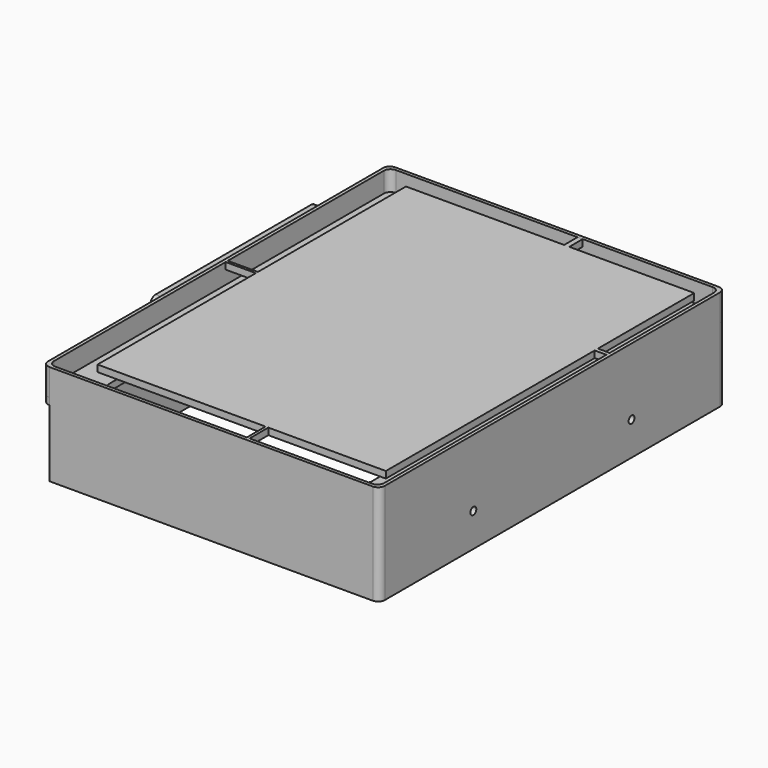
from build123d import *

# Parameters (mm, degrees)
F1_DEPTH  = 6
F3_DEPTH  = 2
F4_DEPTH  = 22
F6_DEPTH  = 22
F7_W      = 1.541879
F7_H      = 5
F7_W_2    = 9
F7_H_2    = 0.79839
F7_W_3    = 3.5
F7_H_3    = 1.202248
F7_W_4    = 0.828379
F7_H_4    = 7
F8_DEPTH  = 2
F10_DEPTH = 13.5
F11_W     = 29.551757
F11_H     = 60.03771
F12_DEPTH = 20
F13_W     = 24.233846
F13_H     = 52
F14_DEPTH = 15
F15_R     = 1.1
F17_DEPTH = 120
F16_R     = 1.1
F18_DEPTH = 25


with BuildPart() as f1:
    # F0 (on Top) → F1 (new body)
    with BuildSketch(Plane.XY):
        with BuildLine():
            Line((47.044474, 65.263562), (-49.455526, 65.263562))
            ThreePointArc((-49.455526, 65.263562), (-50.869739, 64.677775), (-51.455526, 63.263562))
            Line((-51.455526, 63.263562), (-51.455526, -61.736438))
            ThreePointArc((-51.455526, -61.736438), (-50.869739, -63.150652), (-49.455526, -63.736438))
            Line((-49.455526, -63.736438), (47.044474, -63.736438))
            ThreePointArc((47.044474, -63.736438), (48.458688, -63.150652), (49.044474, -61.736438))
            Line((49.044474, -61.736438), (49.044474, 63.263562))
            ThreePointArc((49.044474, 63.263562), (48.458688, 64.677775), (47.044474, 65.263562))
        make_face()
        with BuildLine():
            ThreePointArc((-50.455526, 62.263562), (-49.869739, 63.677775), (-48.455526, 64.263562))
            Line((-48.455526, 64.263562), (46.044474, 64.263562))
            ThreePointArc((46.044474, 64.263562), (47.458688, 63.677775), (48.044474, 62.263562))
            Line((48.044474, 62.263562), (48.044474, -60.736438))
            ThreePointArc((48.044474, -60.736438), (47.458688, -62.150652), (46.044474, -62.736438))
            Line((46.044474, -62.736438), (-48.455526, -62.736438))
            ThreePointArc((-48.455526, -62.736438), (-49.869739, -62.150652), (-50.455526, -60.736438))
            Line((-50.455526, -60.736438), (-50.455526, 62.263562))
        make_face(mode=Mode.SUBTRACT)
    extrude(amount=F1_DEPTH)

    # F2 (on Top) → F3 (join)
    with BuildSketch(Plane.XY):
        with BuildLine():
            Line((47.044474, 65.263562), (-49.455526, 65.263562))
            ThreePointArc((-49.455526, 65.263562), (-50.869739, 64.677775), (-51.455526, 63.263562))
            Line((-51.455526, 63.263562), (-51.455526, -61.736438))
            ThreePointArc((-51.455526, -61.736438), (-50.869739, -63.150652), (-49.455526, -63.736438))
            Line((-49.455526, -63.736438), (47.044474, -63.736438))
            ThreePointArc((47.044474, -63.736438), (48.458688, -63.150652), (49.044474, -61.736438))
            Line((49.044474, -61.736438), (49.044474, 63.263562))
            ThreePointArc((49.044474, 63.263562), (48.458688, 64.677775), (47.044474, 65.263562))
        make_face()
        with BuildLine():
            ThreePointArc((-40.455526, 54.263562), (-39.869739, 55.677775), (-38.455526, 56.263562))
            Line((-38.455526, 56.263562), (36.044474, 56.263562))
            ThreePointArc((36.044474, 56.263562), (37.458688, 55.677775), (38.044474, 54.263562))
            Line((38.044474, 54.263562), (38.044474, -52.736438))
            ThreePointArc((38.044474, -52.736438), (37.458688, -54.150652), (36.044474, -54.736438))
            Line((36.044474, -54.736438), (-38.455526, -54.736438))
            ThreePointArc((-38.455526, -54.736438), (-39.869739, -54.150652), (-40.455526, -52.736438))
            Line((-40.455526, -52.736438), (-40.455526, 54.263562))
        make_face(mode=Mode.SUBTRACT)
    extrude(amount=-F3_DEPTH)

    # F3_face (on face) → F4 (join)
    with BuildSketch(Plane(origin=(-1.205526, 0.763562, -2), x_dir=(1, 0, 0), z_dir=(0, 0, -1))):
        with BuildLine():
            Line((-48.25, -64.5), (48.25, -64.5))
            ThreePointArc((48.25, -64.5), (49.664214, -63.914214), (50.25, -62.5))
            Line((50.25, -62.5), (50.25, 62.5))
            ThreePointArc((50.25, 62.5), (49.664214, 63.914214), (48.25, 64.5))
            Line((48.25, 64.5), (-48.25, 64.5))
            ThreePointArc((-48.25, 64.5), (-49.664214, 63.914214), (-50.25, 62.5))
            Line((-50.25, 62.5), (-50.25, -62.5))
            ThreePointArc((-50.25, -62.5), (-49.664214, -63.914214), (-48.25, -64.5))
        make_face()
        with BuildLine():
            ThreePointArc((-39.25, 53.5), (-38.664214, 54.914214), (-37.25, 55.5))
            Line((-37.25, 55.5), (37.25, 55.5))
            ThreePointArc((37.25, 55.5), (38.664214, 54.914214), (39.25, 53.5))
            Line((39.25, 53.5), (39.25, -53.5))
            ThreePointArc((39.25, -53.5), (38.664214, -54.914214), (37.25, -55.5))
            Line((37.25, -55.5), (-37.25, -55.5))
            ThreePointArc((-37.25, -55.5), (-38.664214, -54.914214), (-39.25, -53.5))
            Line((-39.25, -53.5), (-39.25, 53.5))
        make_face(mode=Mode.SUBTRACT)
    extrude(amount=F4_DEPTH)

    # F5 (on face) → F6 (cut)
    with BuildSketch(Plane(origin=(0, 0, -24), x_dir=(1, 0, 0), z_dir=(0, 0, -1))):
        with BuildLine():
            Line((43.044474, 59.736438), (-45.455526, 59.736438))
            ThreePointArc((-45.455526, 59.736438), (-46.869739, 59.150652), (-47.455526, 57.736438))
            Line((-47.455526, 57.736438), (-47.455526, -59.263562))
            ThreePointArc((-47.455526, -59.263562), (-46.869739, -60.677775), (-45.455526, -61.263562))
            Line((-45.455526, -61.263562), (43.044474, -61.263562))
            ThreePointArc((43.044474, -61.263562), (44.458688, -60.677775), (45.044474, -59.263562))
            Line((45.044474, -59.263562), (45.044474, 57.736438))
            ThreePointArc((45.044474, 57.736438), (44.458688, 59.150652), (43.044474, 59.736438))
        make_face()
    extrude(amount=-F6_DEPTH, mode=Mode.SUBTRACT)

    # F9 (on face) → F10 (join)
    with BuildSketch(Plane(origin=(-51.455526, 0, 0), x_dir=(0, -1, 0), z_dir=(-1, 0, 0))):
        with BuildLine():
            Line((4.736438, -4), (-53.263562, -4))
            ThreePointArc((-53.263562, -4), (-54.677775, -4.585786), (-55.263562, -6))
            Line((-55.263562, -6), (-55.263562, -24))
            Line((-55.263562, -24), (6.736438, -24))
            Line((6.736438, -24), (6.736438, -6))
            ThreePointArc((6.736438, -6), (6.150652, -4.585786), (4.736438, -4))
        make_face()
    extrude(amount=F10_DEPTH)

    # F11 (on face) → F12 (cut)
    with BuildSketch(Plane(origin=(0, 0, -24), x_dir=(1, 0, 0), z_dir=(0, 0, -1))):
        with Locations((-64.231404, 36.755293)):
            Rectangle(F11_W, F11_H)
    extrude(amount=-F12_DEPTH, mode=Mode.SUBTRACT)

    # F13 (on face) → F14 (cut)
    with BuildSketch(Plane(origin=(0, 0, -24), x_dir=(1, 0, 0), z_dir=(0, 0, -1))):
        with Locations((-47.838603, -24.263562)):
            Rectangle(F13_W, F13_H)
    extrude(amount=-F14_DEPTH, mode=Mode.SUBTRACT)

    # F15 (on face) → F17 (cut)
    with BuildSketch(Plane.YZ.offset(49.044474)):
        with Locations((30.263562, -14)):
            Circle(F15_R)
    extrude(amount=-F17_DEPTH, mode=Mode.SUBTRACT)

    # F16 (on face) → F18 (cut)
    with BuildSketch(Plane.YZ.offset(49.044474)):
        with Locations((-28.736438, -14)):
            Circle(F16_R)
    extrude(amount=-F18_DEPTH, mode=Mode.SUBTRACT)


with BuildPart() as f8:
    # F7 (on face) → F8 (new body)
    with BuildSketch(Plane.XY.offset(6)):
        Polygon((5.732744, 59.263562), (-41.455526, 59.263562), (-41.455526, 4.068462), (-41.455526, 3.270072), (-41.455526, -55.736438), (8.660411, -55.736438), (9.48879, -55.736438), (44.544474, -55.736438), (44.544474, 22.143247), (44.544474, 23.345495), (44.544474, 59.263562), (7.274623, 59.263562), align=None)
        with Locations((6.503683, 61.763562)):
            Rectangle(F7_W, F7_H)
        with Locations((-45.955526, 3.669267)):
            Rectangle(F7_W_2, F7_H_2)
        with Locations((46.294474, 22.744371)):
            Rectangle(F7_W_3, F7_H_3)
        with Locations((9.0746, -59.236438)):
            Rectangle(F7_W_4, F7_H_4)
    extrude(amount=-F8_DEPTH)


solid = Compound([f1.part, f8.part])
